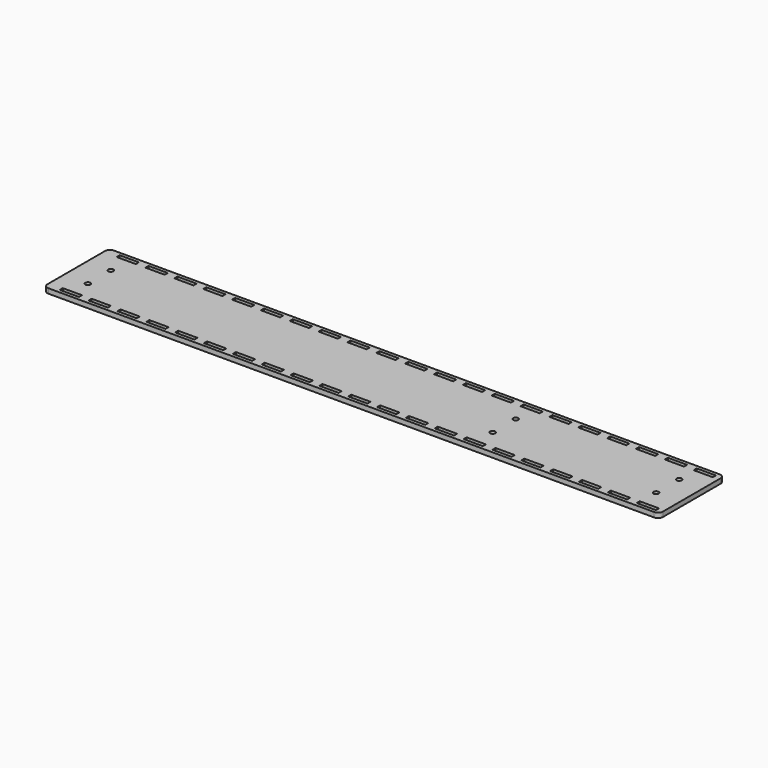
from build123d import *

# Parameters (mm, degrees)
F0_R     = 3.3782
F1_DEPTH = 6.35


with BuildPart() as f1:
    # F0 (on Top) → F1 (new body)
    with BuildSketch(Plane.XY):
        with BuildLine():
            Line((-31.107378, -9.193098), (-31.107378, 86.056902))
            ThreePointArc((-31.107378, 86.056902), (-32.96725, 90.54703), (-37.457378, 92.406902))
            Line((-37.457378, 92.406902), (-837.557378, 92.406902))
            ThreePointArc((-837.557378, 92.406902), (-842.047506, 90.54703), (-843.907378, 86.056902))
            Line((-843.907378, 86.056902), (-843.907378, 38.431902))
            Line((-843.907378, 38.431902), (-843.907378, -9.193098))
            ThreePointArc((-843.907378, -9.193098), (-842.047506, -13.683227), (-837.557378, -15.543098))
            Line((-837.557378, -15.543098), (-37.457378, -15.543098))
            ThreePointArc((-37.457378, -15.543098), (-32.96725, -13.683227), (-31.107378, -9.193098))
        make_face()
        Polygon((-826.179731, -11.103091), (-826.181127, -6.023091), (-800.779731, -6.02261), (-800.779731, -11.103091), align=None, mode=Mode.SUBTRACT)
        Polygon((-762.684758, -11.053139), (-788.084757, -11.05056), (-788.085637, -5.97056), (-762.684242, -5.972658), align=None, mode=Mode.SUBTRACT)
        Polygon((-749.985637, -5.973706), (-724.584242, -5.975804), (-724.584758, -11.056285), (-749.984758, -11.053706), align=None, mode=Mode.SUBTRACT)
        Polygon((-686.484758, -11.060874), (-711.884758, -11.058296), (-711.885637, -5.978296), (-686.484242, -5.973898), align=None, mode=Mode.SUBTRACT)
        Polygon((-673.785637, -5.982163), (-648.384242, -5.977766), (-648.384758, -11.064742), (-673.784758, -11.062163), align=None, mode=Mode.SUBTRACT)
        Polygon((-610.284758, -11.06861), (-635.684758, -11.066031), (-635.685638, -5.986031), (-610.284242, -5.981634), align=None, mode=Mode.SUBTRACT)
        Polygon((-572.184759, -11.072478), (-597.584758, -11.069899), (-597.585638, -5.989899), (-572.184242, -5.985502), align=None, mode=Mode.SUBTRACT)
        Polygon((-559.485638, -5.993767), (-534.084242, -5.989369), (-534.084759, -11.076345), (-559.484759, -11.073767), align=None, mode=Mode.SUBTRACT)
        Polygon((-521.385638, -5.997634), (-495.984243, -5.993237), (-495.984759, -11.080213), (-521.384759, -11.077635), align=None, mode=Mode.SUBTRACT)
        Polygon((-457.884243, -5.997827), (-457.884759, -11.084802), (-483.284759, -11.082224), (-483.285638, -6.002224), align=None, mode=Mode.SUBTRACT)
        with Locations((-812.157378, 17.775812)):
            Circle(F0_R, mode=Mode.SUBTRACT)
        Polygon((-419.784759, -11.087949), (-445.184759, -11.08537), (-445.185639, -6.00537), (-419.784243, -6.000973), align=None, mode=Mode.SUBTRACT)
        Polygon((-381.684243, -6.00484), (-381.68476, -11.091816), (-407.084759, -11.089238), (-407.085639, -6.009238), align=None, mode=Mode.SUBTRACT)
        Polygon((-343.58476, -11.095684), (-368.98476, -11.093106), (-368.985639, -6.013106), (-343.584243, -6.008708), align=None, mode=Mode.SUBTRACT)
        Polygon((-305.48476, -11.099552), (-330.88476, -11.096973), (-330.885639, -6.016973), (-305.484243, -6.012576), align=None, mode=Mode.SUBTRACT)
        Polygon((-292.785639, -6.020841), (-267.384244, -6.016444), (-267.38476, -11.10342), (-292.78476, -11.100841), align=None, mode=Mode.SUBTRACT)
        Polygon((-229.28476, -11.107287), (-254.68476, -11.104709), (-254.68564, -6.024709), (-229.284244, -6.020312), align=None, mode=Mode.SUBTRACT)
        Polygon((-191.18476, -11.111155), (-216.58476, -11.108577), (-216.58564, -6.028577), (-191.184244, -6.024179), align=None, mode=Mode.SUBTRACT)
        Polygon((-178.48564, -6.032444), (-153.084244, -6.028047), (-153.084761, -11.115023), (-178.484761, -11.112444), align=None, mode=Mode.SUBTRACT)
        Polygon((-114.984761, -11.118891), (-140.384761, -11.116312), (-140.38564, -6.036312), (-114.984244, -6.031915), align=None, mode=Mode.SUBTRACT)
        Polygon((-102.28564, -6.04018), (-76.884245, -6.035783), (-76.884761, -11.122759), (-102.284761, -11.12018), align=None, mode=Mode.SUBTRACT)
        Polygon((-38.784761, -11.126626), (-64.184761, -11.124048), (-64.185641, -6.044048), (-38.784245, -6.03965), align=None, mode=Mode.SUBTRACT)
        with Locations((-278.757378, 19.382315)):
            Circle(F0_R, mode=Mode.SUBTRACT)
        with Locations((-62.857378, 19.379803)):
            Circle(F0_R, mode=Mode.SUBTRACT)
        with Locations((-812.157378, 55.875812)):
            Circle(F0_R, mode=Mode.SUBTRACT)
        Polygon((-826.179731, 87.966894), (-800.779731, 87.966894), (-800.779731, 82.886413), (-826.181127, 82.886894), align=None, mode=Mode.SUBTRACT)
        Polygon((-788.079731, 87.966894), (-762.679731, 87.966894), (-762.679731, 82.886413), (-788.081127, 82.886894), align=None, mode=Mode.SUBTRACT)
        Polygon((-749.979731, 87.966173), (-724.579731, 87.966173), (-724.579731, 82.885692), (-749.981127, 82.886173), align=None, mode=Mode.SUBTRACT)
        Polygon((-711.879731, 87.966894), (-686.479731, 87.966894), (-686.479731, 82.879919), (-711.881127, 82.886894), align=None, mode=Mode.SUBTRACT)
        Polygon((-673.779731, 87.966894), (-648.379731, 87.966894), (-648.379731, 82.879919), (-673.781127, 82.886894), align=None, mode=Mode.SUBTRACT)
        Polygon((-635.679731, 87.966894), (-610.279731, 87.966894), (-610.279731, 82.879919), (-635.681127, 82.886894), align=None, mode=Mode.SUBTRACT)
        Polygon((-597.579731, 87.966894), (-572.179731, 87.966894), (-572.179731, 82.879919), (-597.581127, 82.886894), align=None, mode=Mode.SUBTRACT)
        Polygon((-559.479731, 87.966894), (-534.079731, 87.966894), (-534.079731, 82.879919), (-559.481127, 82.886894), align=None, mode=Mode.SUBTRACT)
        Polygon((-521.379731, 87.966894), (-495.979731, 87.966894), (-495.979731, 82.879919), (-521.381127, 82.886894), align=None, mode=Mode.SUBTRACT)
        Polygon((-483.279731, 87.967616), (-457.879731, 87.967616), (-457.879731, 82.88064), (-483.281127, 82.887616), align=None, mode=Mode.SUBTRACT)
        with Locations((-278.757378, 57.479803)):
            Circle(F0_R, mode=Mode.SUBTRACT)
        with Locations((-62.857378, 57.479803)):
            Circle(F0_R, mode=Mode.SUBTRACT)
        Polygon((-445.179731, 87.966894), (-419.779731, 87.966894), (-419.779731, 82.879919), (-445.181127, 82.886894), align=None, mode=Mode.SUBTRACT)
        Polygon((-407.079731, 87.966894), (-381.679731, 87.966894), (-381.679731, 82.879919), (-407.081127, 82.886894), align=None, mode=Mode.SUBTRACT)
        Polygon((-368.981127, 82.886894), (-368.979731, 87.966894), (-343.579731, 87.966894), (-343.579731, 82.879919), align=None, mode=Mode.SUBTRACT)
        Polygon((-305.479731, 82.879919), (-330.881127, 82.886894), (-330.879731, 87.966894), (-305.479731, 87.966894), align=None, mode=Mode.SUBTRACT)
        Polygon((-267.379731, 82.879919), (-292.781127, 82.886894), (-292.779731, 87.966894), (-267.379731, 87.966894), align=None, mode=Mode.SUBTRACT)
        Polygon((-229.279731, 82.879919), (-254.681127, 82.886894), (-254.679731, 87.966894), (-229.279731, 87.966894), align=None, mode=Mode.SUBTRACT)
        Polygon((-191.179731, 82.879919), (-216.581127, 82.886894), (-216.579731, 87.966894), (-191.179731, 87.966894), align=None, mode=Mode.SUBTRACT)
        Polygon((-153.079731, 82.879919), (-178.481127, 82.886894), (-178.479731, 87.966894), (-153.079731, 87.966894), align=None, mode=Mode.SUBTRACT)
        Polygon((-114.979731, 82.879919), (-140.381127, 82.886894), (-140.379731, 87.966894), (-114.979731, 87.966894), align=None, mode=Mode.SUBTRACT)
        Polygon((-76.879731, 82.879919), (-102.281127, 82.886894), (-102.279731, 87.966894), (-76.879731, 87.966894), align=None, mode=Mode.SUBTRACT)
        Polygon((-38.779731, 82.879919), (-64.181127, 82.886894), (-64.179731, 87.966894), (-38.779731, 87.966894), align=None, mode=Mode.SUBTRACT)
    extrude(amount=F1_DEPTH)


solid = f1.part
